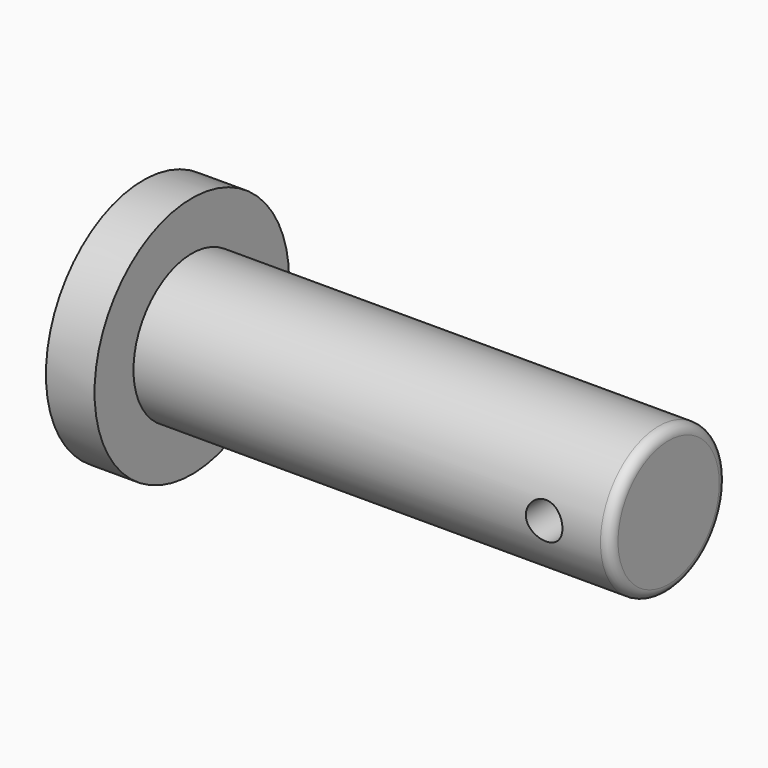
from build123d import *

# Parameters (mm, degrees)
F0_R     = 15.875
F1_DEPTH = 6.35
F2_R     = 9.525
F3_DEPTH = 62.23
F4_R     = 1.27
F5_R     = 2.3876
F6_DEPTH = 12.7


with BuildPart() as f1:
    # F0 (on Right) → F1 (new body)
    with BuildSketch(Plane.YZ):
        Circle(F0_R)
    extrude(amount=F1_DEPTH)

    # F2 (on face) → F3 (join)
    with BuildSketch(Plane.YZ.offset(6.35)):
        Circle(F2_R)
    extrude(amount=F3_DEPTH)

    # F4
    f4_edges = [f1.edges().sort_by_distance(p)[0] for p in [
        (68.58, -9.525, 0),
    ]]
    fillet(f4_edges, radius=F4_R)

    # F5 (on Front) → F6 (cut, symmetric)
    with BuildSketch(Plane.XZ):
        with Locations((59.951451, 0)):
            Circle(F5_R)
    extrude(amount=F6_DEPTH, both=True, mode=Mode.SUBTRACT)


solid = f1.part
